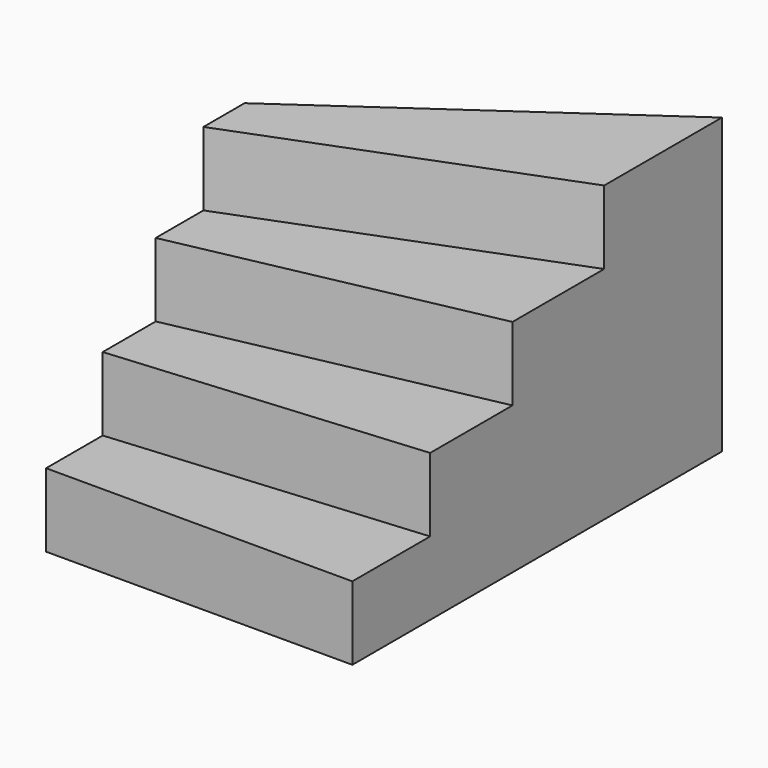
from build123d import *

# Parameters (mm, degrees)
F1_DEPTH = 192
F2_DEPTH = 384
F3_DEPTH = 576
F4_DEPTH = 768


with BuildPart() as f1:
    # F0 (on Top) → F1 (new body)
    with BuildSketch(Plane.XY):
        Polygon((1188.775452454, -1224.3236021269), (1188.775452454, -970.2663376007), (388.775452454, -1039.3673186817), (388.775452454, -1224.3236021269), align=None)
    extrude(amount=F1_DEPTH)

    # F0 (on Top) → F2 (join)
    with BuildSketch(Plane.XY):
        Polygon((1188.775452454, -970.2663376007), (1188.775452454, -701.3968009689), (388.775452454, -866.2996554468), (388.775452454, -1039.3673186817), align=None)
    extrude(amount=F2_DEPTH)

    # F0 (on Top) → F3 (join)
    with BuildSketch(Plane.XY):
        Polygon((1188.775452454, -701.3968009689), (1188.775452454, -402.0830337411), (388.775452454, -710.5429181553), (388.775452454, -866.2996554468), align=None)
    extrude(amount=F3_DEPTH)

    # F0 (on Top) → F4 (join)
    with BuildSketch(Plane.XY):
        Polygon((1188.775452454, -402.0830337411), (1188.775452454, -17.5821596523), (735.1856139678, -334.3236021269), (448.775452454, -534.3236021269), (388.775452454, -576.2215569221), (388.775452454, -710.5429181553), align=None)
    extrude(amount=F4_DEPTH)


solid = f1.part
